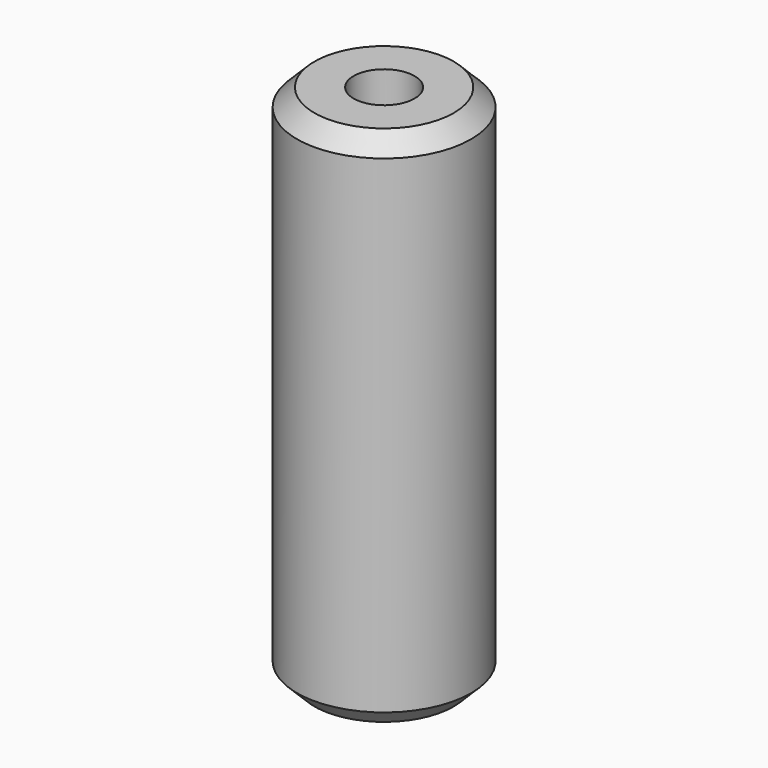
from build123d import *

# Parameters (mm, degrees)
F0_R     = 10
F1_DEPTH = 30
F2_R     = 3.5
F4_DEPTH = 29
F3_R     = 3.5
F5_DEPTH = 29
F6_SIZE  = 2


with BuildPart() as f1:
    # F0 (on Top) → F1 (new body, symmetric)
    with BuildSketch(Plane.XY):
        Circle(F0_R)
    extrude(amount=F1_DEPTH, both=True)

    # F2 (on face) → F4 (cut)
    with BuildSketch(Plane(origin=(0, 0, -30), x_dir=(1, 0, 0), z_dir=(0, 0, -1))):
        Circle(F2_R)
    extrude(amount=-F4_DEPTH, mode=Mode.SUBTRACT)

    # F3 (on face) → F5 (cut)
    with BuildSketch(Plane.XY.offset(30)):
        Circle(F3_R)
    extrude(amount=-F5_DEPTH, mode=Mode.SUBTRACT)

    # F6
    f6_edges = [f1.edges().sort_by_distance(p)[0] for p in [
        (-10, 0, 30),
        (-10, 0, -30),
    ]]
    chamfer(f6_edges, length=F6_SIZE)


solid = f1.part
